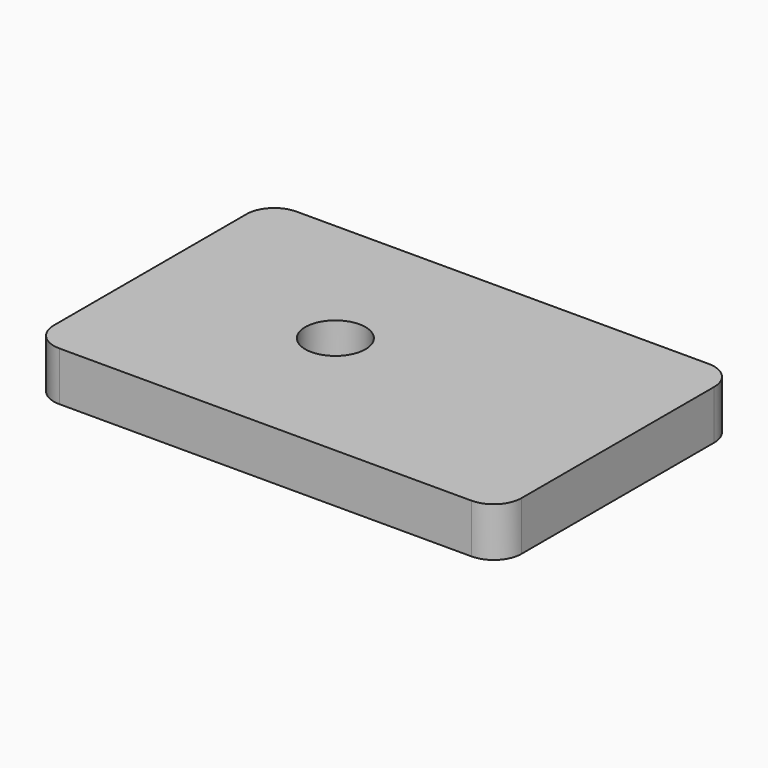
from build123d import *

# Parameters (mm, degrees)
SKETCH_R  = 3.25
PAD_DEPTH = 5.3


with BuildPart() as part:
    # Sketch → Pad (new body)
    with BuildSketch(Plane.XY):
        with BuildLine():
            Line((-22.25, 16), (22.25, 16))
            ThreePointArc((25.25, 13), (24.37132, 15.12132), (22.25, 16))
            Line((25.25, 13), (25.25, -13))
            ThreePointArc((22.25, -16), (24.37132, -15.12132), (25.25, -13))
            Line((22.25, -16), (-22.25, -16))
            ThreePointArc((-25.25, -13), (-24.37132, -15.12132), (-22.25, -16))
            Line((-25.25, -13), (-25.25, 13))
            ThreePointArc((-22.25, 16), (-24.37132, 15.12132), (-25.25, 13))
        make_face()
        with Locations((-5.25, 0)):
            Circle(SKETCH_R, mode=Mode.SUBTRACT)
    extrude(amount=PAD_DEPTH)


solid = part.part
